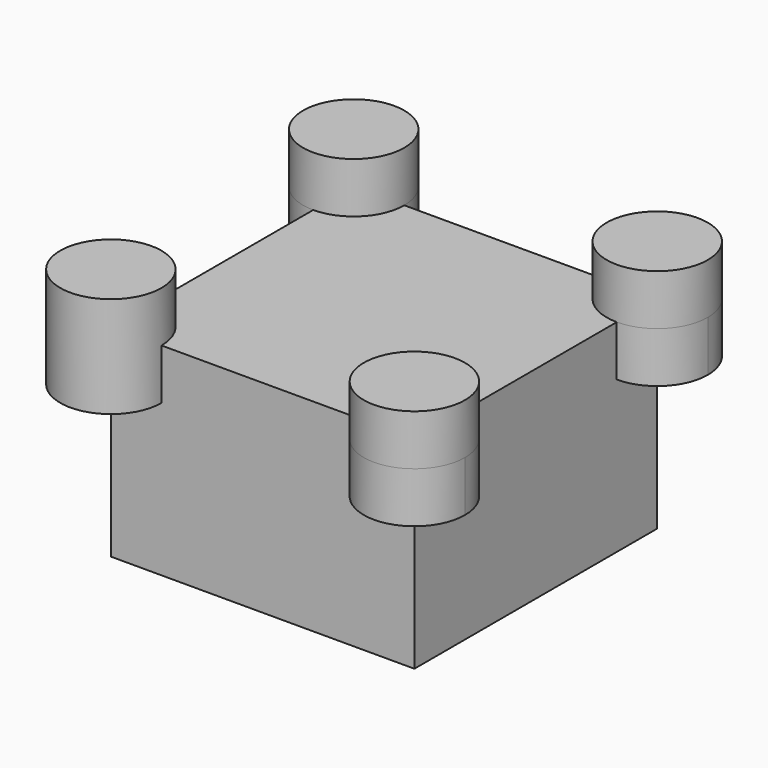
from build123d import *

# Parameters (mm, degrees)
F0_W     = 76.2
F0_H     = 76.2
F1_DEPTH = 50.8
F2_R     = 12.7
F3_DEPTH = 12.7


with BuildPart() as f1:
    # F0 (on Top) → F1 (new body)
    with BuildSketch(Plane.XY):
        Rectangle(F0_W, F0_H)
    extrude(amount=F1_DEPTH)

    # F2 (on face) → F3 (join, symmetric)
    with BuildSketch(Plane.XY.offset(50.8)):
        with Locations((-38.1, 38.1)):
            Circle(F2_R)
        with Locations((38.1, 38.1)):
            Circle(F2_R)
        with Locations((38.1, -38.1)):
            Circle(F2_R)
        with Locations((-38.1, -38.1)):
            Circle(F2_R)
    extrude(amount=F3_DEPTH, both=True)


solid = f1.part
